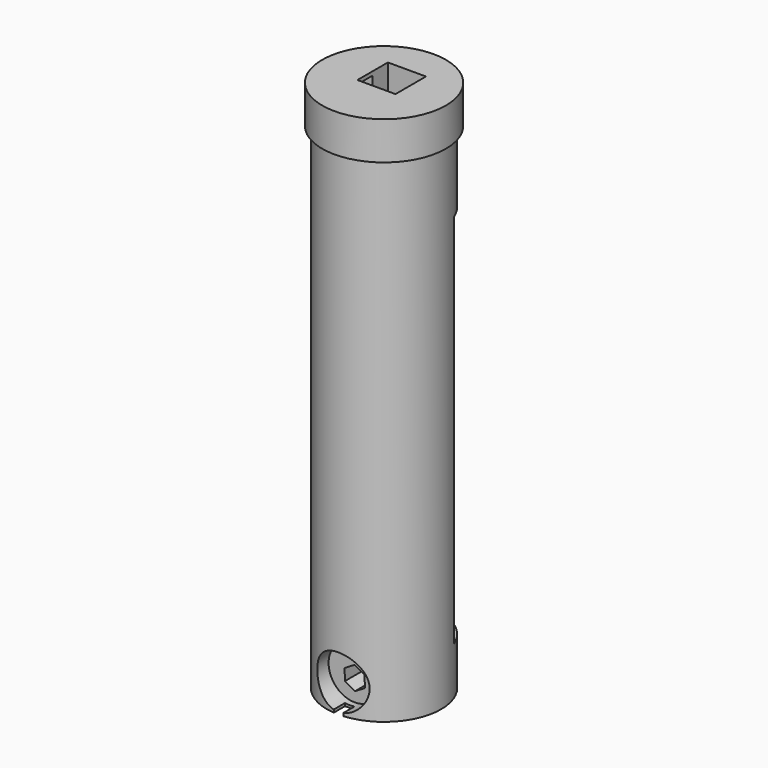
from build123d import *

# Parameters (mm, degrees)
F0_R      = 12
F1_DEPTH  = 104
F2_R      = 13
F3_DEPTH  = 8
F5_DEPTH  = 25
F8_DEPTH  = 79
F10_DEPTH = 10.001
F11_W     = 2
F11_H     = 5
F12_DEPTH = 6
F14_R     = 5.5
F15_DEPTH = 5.301
F16_W     = 5.875
F16_H     = 4
F17_DEPTH = 0.8
F18_R     = 1
F19_DEPTH = 20.4037756377
F21_DEPTH = 12


with BuildPart() as f1:
    # F0 (on Top) → F1 (new body)
    with BuildSketch(Plane.XY):
        Circle(F0_R)
    extrude(amount=-F1_DEPTH)

    # F2 (on face) → F3 (join)
    with BuildSketch(Plane.XY):
        Circle(F2_R)
    extrude(amount=F3_DEPTH)

    # F4 (on Top) → F5 (cut, symmetric)
    with BuildSketch(Plane.XY):
        Polygon((-4, 2), (-9.875, 2), (-9.875, -2), (9.875, -2), (9.875, 2), (4, 2), (4, 6), (-4, 6), align=None)
    extrude(amount=F5_DEPTH, both=True, mode=Mode.SUBTRACT)

    # F7 (on offset) → F8 (cut)
    with BuildSketch(Plane(origin=(0, 0, -94), x_dir=(1, 0, 0), z_dir=(0, 0, -1))):
        with BuildLine():
            Line((12.2474487139, -4.3588989435), (9, -4.3588989435))
            ThreePointArc((9, -4.3588989435), (0, 10), (-9, -4.3588989435))
            Line((-9, -4.3588989435), (-12.2474487139, -4.3588989435))
            ThreePointArc((-12.2474487139, -4.3588989435), (0, -13), (12.2474487139, -4.3588989435))
        make_face()
    extrude(amount=-F8_DEPTH, mode=Mode.SUBTRACT)

    # F9 (on offset) → F10 (cut, through all)
    with BuildSketch(Plane(origin=(0, 0, -94), x_dir=(1, 0, 0), z_dir=(0, 0, -1))):
        with BuildLine():
            Line((7.2, -7.4027756377), (-7.2, -7.4027756377))
            Line((-7.2, -7.4027756377), (-7.2, -10.8240473022))
            ThreePointArc((-7.2, -10.8240473022), (0, -13), (7.2, -10.8240473022))
            Line((7.2, -10.8240473022), (7.2, -7.4027756377))
        make_face()
    extrude(amount=F10_DEPTH, mode=Mode.SUBTRACT)

    # F11 (on face) → F12 (cut)
    with BuildSketch(Plane(origin=(0, 0, -104), x_dir=(1, 0, 0), z_dir=(0, 0, -1))):
        with Locations((0, 11.5)):
            Rectangle(F11_W, F11_H)
    extrude(amount=-F12_DEPTH, mode=Mode.SUBTRACT)

    # F14 (on offset) → F15 (cut, through all)
    with BuildSketch(Plane.XZ.offset(7.7)):
        with Locations((0, -98)):
            Circle(F14_R)
    extrude(amount=F15_DEPTH, mode=Mode.SUBTRACT)

    # F16 (on face) → F17 (join)
    with BuildSketch(Plane.XY.offset(8)):
        with Locations((-6.9375, 0)):
            Rectangle(F16_W, F16_H)
        with Locations((6.9375, 0)):
            Rectangle(F16_W, F16_H)
    extrude(amount=-F17_DEPTH)

    # F18 (on face) → F19 (cut, through all)
    with BuildSketch(Plane(origin=(0, 7.4027756377, 0), x_dir=(-1, 0, 0), z_dir=(0, 1, 0))):
        with Locations((0, -99)):
            Circle(F18_R)
    extrude(amount=-F19_DEPTH, mode=Mode.SUBTRACT)

    # F20 (on face) → F21 (cut)
    with BuildSketch(Plane.XZ.offset(7.7)):
        Polygon((0.0404706976, -101.4245333825), (2.1199428503, -100.177218039), (2.0794721527, -97.7526846565), (-0.0404706976, -96.5754666175), (-2.1199428503, -97.822781961), (-2.0794721527, -100.2473153435), align=None)
    extrude(amount=-F21_DEPTH, mode=Mode.SUBTRACT)


solid = f1.part
